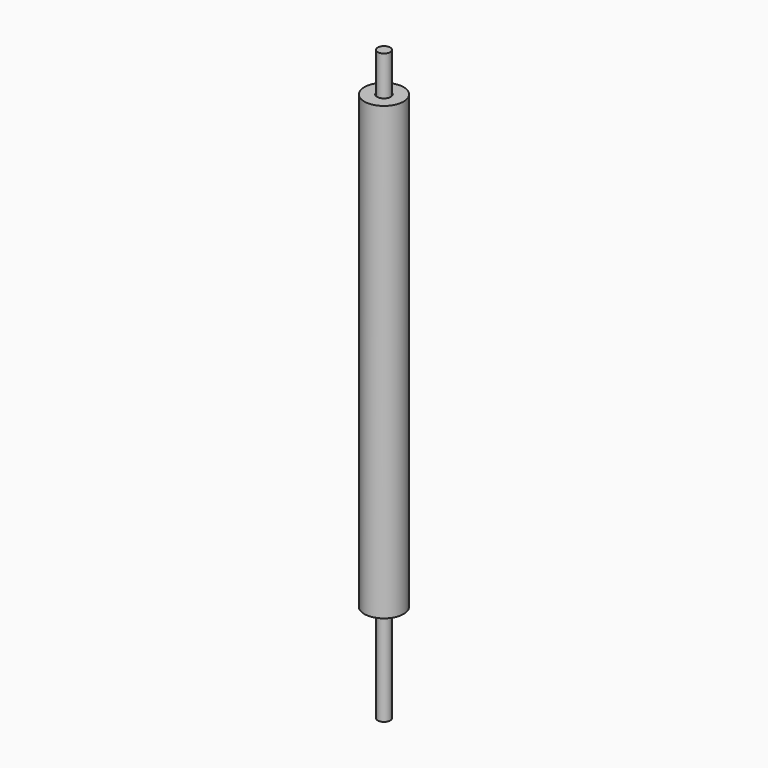
from build123d import *

# Parameters (mm, degrees)
F0_W = 0.32
F0_H = 30
F2_W = 0.65
F2_H = 23


with BuildPart() as f1:
    # F0 (on Front) → F1 (revolve)
    with BuildSketch(Plane.XZ):
        with Locations((-0.16, 15)):
            Rectangle(F0_W, F0_H)
    revolve(axis=Axis((0, 0, 15), (0, 0, -1)))


with BuildPart() as f3:
    # F2 (on Front) → F3 (revolve)
    with BuildSketch(Plane.XZ):
        with Locations((-0.675, 16.5)):
            Rectangle(F2_W, F2_H)
    revolve(axis=Axis((0, 0, 18.896753), (0, 0, 1)))


solid = Compound([f1.part, f3.part])
